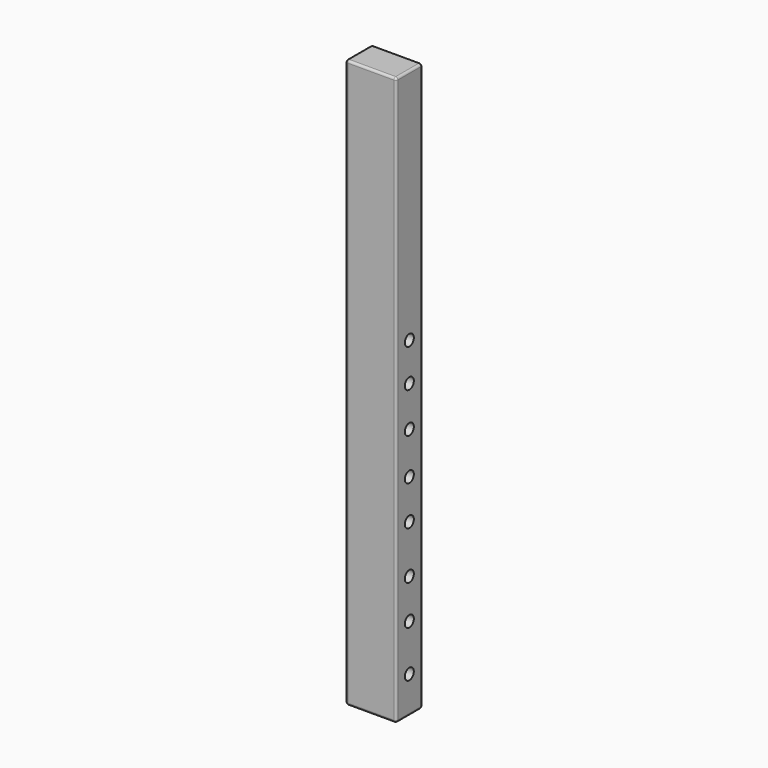
from build123d import *

# Parameters (mm, degrees)
F0_W     = 11.4448349923
F0_H     = 7.429568097
F1_DEPTH = 128.27
F2_R     = 0.508
F4_D     = 2.54
F4_DEPTH = 12.7
F4_TIP   = 0.7630929862
F5_D     = 2.54
F5_DEPTH = 12.7
F5_TIP   = 0.7630929862


with BuildPart() as f1:
    # F0 (on Top) → F1 (new body)
    with BuildSketch(Plane.XY):
        Rectangle(F0_W, F0_H)
    extrude(amount=F1_DEPTH)

    # F2
    f2_edges = [f1.edges().sort_by_distance(p)[0] for p in [
        (-5.722417, 3.714784, 64.135),
        (-5.722417, -3.714784, 64.135),
        (-5.722417, 0, 0),
        (-5.722417, 0, 128.27),
        (5.722417, -3.714784, 64.135),
        (0, -3.714784, 0),
        (0, -3.714784, 128.27),
        (5.722417, 0, 128.27),
        (0, 3.714784, 128.27),
        (5.722417, 3.714784, 64.135),
        (5.722417, 0, 0),
        (0, 3.714784, 0),
    ]]
    fillet(f2_edges, radius=F2_R)

    # F4 (one way)
    with BuildSketch(Plane.YZ):
        with Locations((0, 74.714243412), (0, 66.1139637232), (0, 56.9976679981), (0, 47.5373640656), (0, 38.5930761695), (0, 27.7567245066), (0, 18.8124384731), (0, 8.3200978115)):
            Circle(F4_D / 2)
    extrude(amount=-F4_DEPTH, mode=Mode.SUBTRACT)
    with Locations(Plane.YZ):
        with Locations((0, 74.714243412), (0, 66.1139637232), (0, 56.9976679981), (0, 47.5373640656), (0, 38.5930761695), (0, 27.7567245066), (0, 18.8124384731), (0, 8.3200978115)):
            with Locations((0, 0, -(F4_DEPTH + F4_TIP / 2))):  # 118° drill point
                Cone(0, F4_D / 2, F4_TIP, mode=Mode.SUBTRACT)

    # F5
    with Locations(Plane(origin=(0, 0, 0), x_dir=(0, 1, 0), z_dir=(-1, 0, 0))):
        with Locations((0, -74.714243412), (0, -66.1139637232), (0, -56.9976679981), (0, -47.5373640656), (0, -38.5930761695), (0, -27.7567245066), (0, -18.8124384731), (0, -8.3200978115)):
            Hole(F5_D / 2, depth=F5_DEPTH)
            with Locations((0, 0, -(F5_DEPTH + F5_TIP / 2))):  # 118° drill point
                Cone(0, F5_D / 2, F5_TIP, mode=Mode.SUBTRACT)


solid = f1.part
